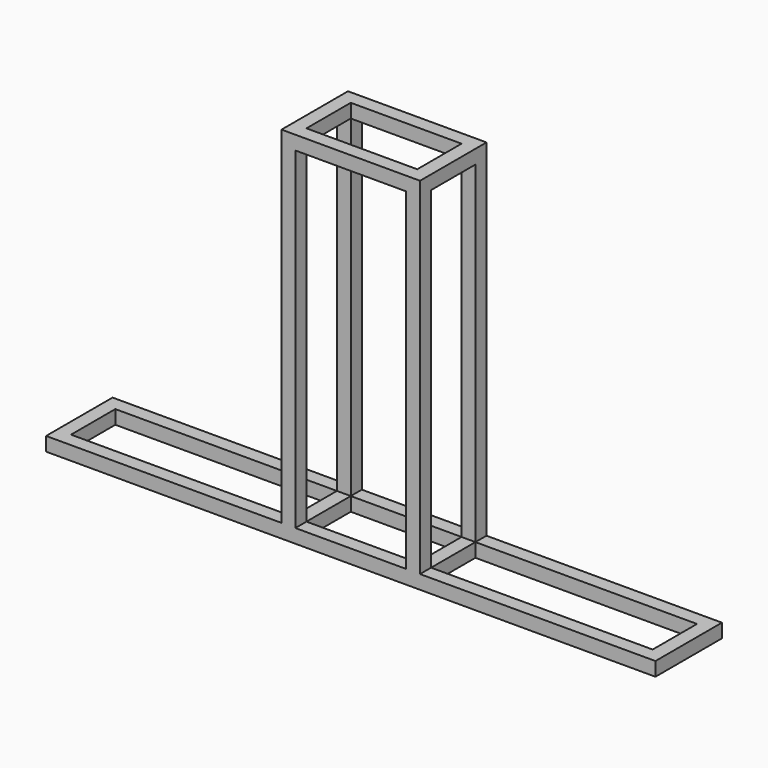
from build123d import *

# Parameters (mm, degrees)
F0_W          = 2.5
F0_H          = 2.5
F0_W_2        = 20
F0_H_2        = 60
F0_W_3        = 40
F1_DEPTH      = 15
F2_W          = 20
F2_H          = 10
F2_W_2        = 40
F3_DEPTH      = 70
F4_W          = 10
F4_H          = 60
F5_DEPTH      = 25
F5_DEPTH_BACK = 25


with BuildPart() as f1:
    # F0 (on Front) → F1 (new body)
    with BuildSketch(Plane.XZ):
        with Locations((-11.25, 63.75)):
            Rectangle(F0_W, F0_H)
        with Locations((0, 63.75)):
            Rectangle(F0_W_2, F0_H)
        with Locations((11.25, 63.75)):
            Rectangle(F0_W, F0_H)
        with Locations((-11.25, 32.5)):
            Rectangle(F0_W, F0_H_2)
        with Locations((11.25, 32.5)):
            Rectangle(F0_W, F0_H_2)
        with Locations((0, 1.25)):
            Rectangle(F0_W_2, F0_H)
        with Locations((-32.5, 1.25)):
            Rectangle(F0_W_3, F0_H)
        with Locations((32.5, 1.25)):
            Rectangle(F0_W_3, F0_H)
        with Locations((11.25, 1.25)):
            Rectangle(F0_W, F0_H)
        with Locations((53.75, 1.25)):
            Rectangle(F0_W, F0_H)
        with Locations((-11.25, 1.25)):
            Rectangle(F0_W, F0_H)
        with Locations((-53.75, 1.25)):
            Rectangle(F0_W, F0_H)
    extrude(amount=F1_DEPTH)

    # F2 (on Top) → F3 (cut)
    with BuildSketch(Plane.XY):
        with Locations((0, -7.5)):
            Rectangle(F2_W, F2_H)
        with Locations((32.5, -7.5)):
            Rectangle(F2_W_2, F2_H)
        with Locations((-32.5, -7.5)):
            Rectangle(F2_W_2, F2_H)
    extrude(amount=F3_DEPTH, mode=Mode.SUBTRACT)

    # F4 (on Right) → F5 (cut, two sides)
    with BuildSketch(Plane.YZ) as f5_sk:
        with Locations((-7.5, 32.5)):
            Rectangle(F4_W, F4_H)
    extrude(amount=-F5_DEPTH, mode=Mode.SUBTRACT)
    extrude(f5_sk.sketch, amount=F5_DEPTH_BACK, mode=Mode.SUBTRACT)


solid = f1.part
